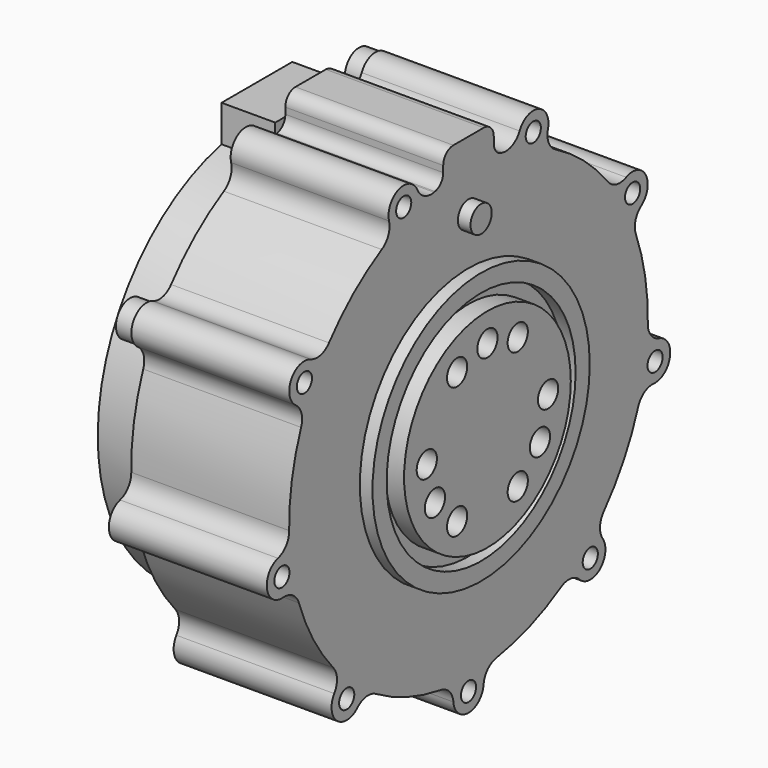
from build123d import *

# Parameters (mm, degrees)
SKETCH009_R        = 16.5
SKETCH009_R_2      = 2
PAD006_DEPTH       = 3
SKETCH010_R        = 1.5
PAD007_DEPTH       = 25
POLARPATTERN_COUNT = 9
PAD008_DEPTH       = 25
SKETCH012_R        = 21.5
SKETCH012_R_2      = 18.7
SKETCH012_R_3      = 2.1
PAD009_DEPTH       = 2
PAD010_DEPTH       = 8.5
SKETCH014_R        = 2.8
PAD011_DEPTH       = 2.6
CHAMFER_SIZE       = 1.2


with BuildPart() as part:
    # Sketch009 → Pad006 (new body)
    with BuildSketch(Plane.YZ):
        Circle(SKETCH009_R)
        with Locations((0, 12)):
            Circle(SKETCH009_R_2, mode=Mode.SUBTRACT)
        with Locations((-6, 10.392305)):
            Circle(SKETCH009_R_2, mode=Mode.SUBTRACT)
        with Locations((6, 10.392305)):
            Circle(SKETCH009_R_2, mode=Mode.SUBTRACT)
        with Locations((12, 0)):
            Circle(SKETCH009_R_2, mode=Mode.SUBTRACT)
        with Locations((10.392305, -6)):
            Circle(SKETCH009_R_2, mode=Mode.SUBTRACT)
        with Locations((6, -10.392305)):
            Circle(SKETCH009_R_2, mode=Mode.SUBTRACT)
        with Locations((-6, -10.392305)):
            Circle(SKETCH009_R_2, mode=Mode.SUBTRACT)
        with Locations((-10.392305, -6)):
            Circle(SKETCH009_R_2, mode=Mode.SUBTRACT)
        with Locations((-12, 0)):
            Circle(SKETCH009_R_2, mode=Mode.SUBTRACT)
    extrude(amount=PAD006_DEPTH)

    # Sketch010 → Pad007 (join)
    with BuildSketch(Plane.YZ):
        with BuildLine():
            ThreePointArc((5.510568, -35.069697), (0, 35.5), (-5.510568, -35.069697))
            ThreePointArc((-2.988125, -37.766667), (-3.785221, -35.984091), (-5.510568, -35.069697))
            ThreePointArc((-2.988125, -37.766667), (0, -40.5), (2.988125, -37.766667))
            ThreePointArc((5.510568, -35.069697), (3.785221, -35.984091), (2.988125, -37.766667))
        make_face()
        with Locations((0, -37.5)):
            Circle(SKETCH010_R, mode=Mode.SUBTRACT)
    pad007 = extrude(amount=-PAD007_DEPTH)

    # PolarPattern: Pad007 ×9 about axis
    polarpattern_axis = Axis((0, 0, 0), (1, 0, 0))
    for i in range(1, POLARPATTERN_COUNT):
        add(pad007.rotate(polarpattern_axis, i * 360 / POLARPATTERN_COUNT))

    # Sketch011 → Pad008 (join)
    with BuildSketch(Plane.YZ):
        with BuildLine():
            ThreePointArc((-6.626667, 34.876027), (-5.459437, 35.565466), (-5, 36.840874))
            Line((-5, 37.840874), (-5, 36.840874))
            ThreePointArc((-3, 39.840874), (-4.414214, 39.255088), (-5, 37.840874))
            Line((-3, 39.840874), (3, 39.840874))
            ThreePointArc((5, 37.840874), (4.414214, 39.255088), (3, 39.840874))
            Line((5, 37.840874), (5, 36.840874))
            ThreePointArc((5, 36.840874), (5.459437, 35.565466), (6.626667, 34.876027))
            ThreePointArc((6.626667, 34.876027), (0, 35.5), (-6.626667, 34.876027))
        make_face()
    extrude(amount=-PAD008_DEPTH)

    # Sketch012 → Pad009 (join)
    with BuildSketch(Plane.YZ):
        Circle(SKETCH012_R)
        Circle(SKETCH012_R_2, mode=Mode.SUBTRACT)
        with Locations((0, 29)):
            Circle(SKETCH012_R_3)
    extrude(amount=PAD009_DEPTH)

    # Sketch013 → Pad010 (join)
    with BuildSketch(Plane.YZ.offset(-25)):
        with BuildLine():
            ThreePointArc((-7, 30.712375), (0, -31.5), (7, 30.712375))
            Line((7, 36.5), (7, 30.712375))
            Line((-7, 36.5), (7, 36.5))
            Line((-7, 30.712375), (-7, 36.5))
        make_face()
    extrude(amount=-PAD010_DEPTH)

    # Sketch014 → Pad011 (join)
    with BuildSketch(Plane.YZ.offset(-25)):
        with Locations((12.825755, 35.238473)):
            Circle(SKETCH014_R)
        with Locations((32.475953, 18.75)):
            Circle(SKETCH014_R)
        with Locations((-32.475953, 18.75)):
            Circle(SKETCH014_R)
    extrude(amount=-PAD011_DEPTH)

    # Chamfer
    chamfer_edges = [part.edges().sort_by_distance(p)[0] for p in [
        (-25, 0, -31.5),
    ]]
    chamfer(chamfer_edges, length=CHAMFER_SIZE)


with BuildPart() as part_1:
    # Body009 placement: moved
    add(part.part.moved(Location((-38.8, 0, 55.540956))))


with BuildPart() as part_2:
    # Clone003 placement: moved
    add(part_1.part.moved(Location((38.8, 0, -55.540956))))


with BuildPart() as part_3:
    # Body010 placement: moved
    add(part_2.part.moved(Location((47, 0, 107))))


solid = part_3.part
